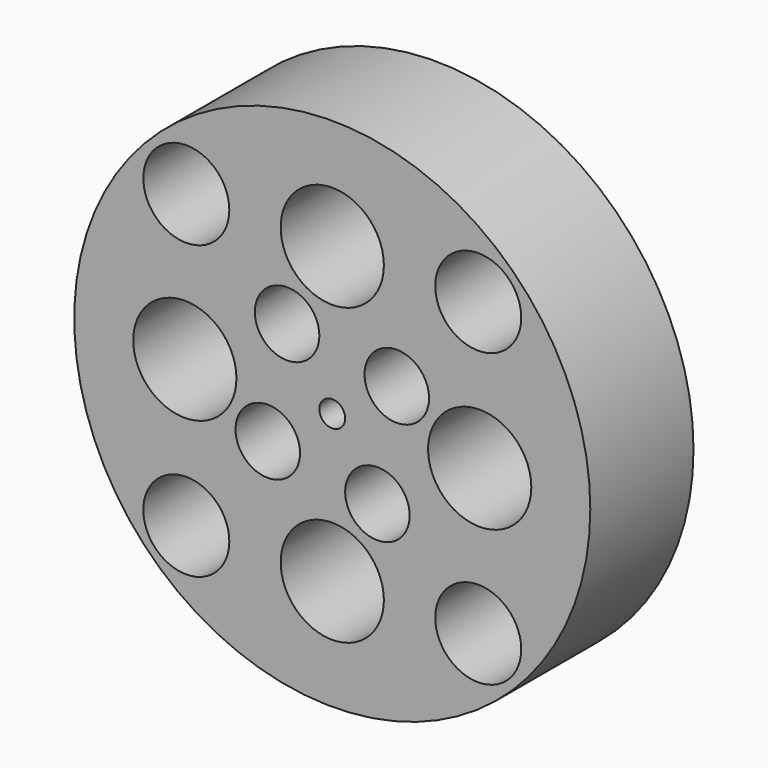
from build123d import *

# Parameters (mm, degrees)
F0_R     = 50
F0_R_2   = 2.5
F1_DEPTH = 25
F2_R     = 8.333333
F2_R_2   = 10
F2_R_3   = 6.25
F3_DEPTH = 25


with BuildPart() as f1:
    # F0 (on Front) → F1 (new body)
    with BuildSketch(Plane.XZ):
        Circle(F0_R)
        Circle(F0_R_2, mode=Mode.SUBTRACT)
    extrude(amount=F1_DEPTH)

    # F2 (on face) → F3 (cut)
    with BuildSketch(Plane.XZ.offset(25)):
        with Locations((-28.284271, 28.284271)):
            Circle(F2_R)
        with Locations((0, 28.571429)):
            Circle(F2_R_2)
        with Locations((-8.752594, 12.5)):
            Circle(F2_R_3)
        with Locations((12.5, 8.752594)):
            Circle(F2_R_3)
        with Locations((28.284271, 28.284271)):
            Circle(F2_R)
        with Locations((28.571429, 0)):
            Circle(F2_R_2)
        with Locations((-28.571429, 0)):
            Circle(F2_R_2)
        with Locations((-28.284271, -28.284271)):
            Circle(F2_R)
        with Locations((0, -28.571429)):
            Circle(F2_R_2)
        with Locations((-12.5, -8.752594)):
            Circle(F2_R_3)
        with Locations((28.284271, -28.284271)):
            Circle(F2_R)
        with Locations((8.752594, -12.5)):
            Circle(F2_R_3)
    extrude(amount=-F3_DEPTH, mode=Mode.SUBTRACT)


solid = f1.part
